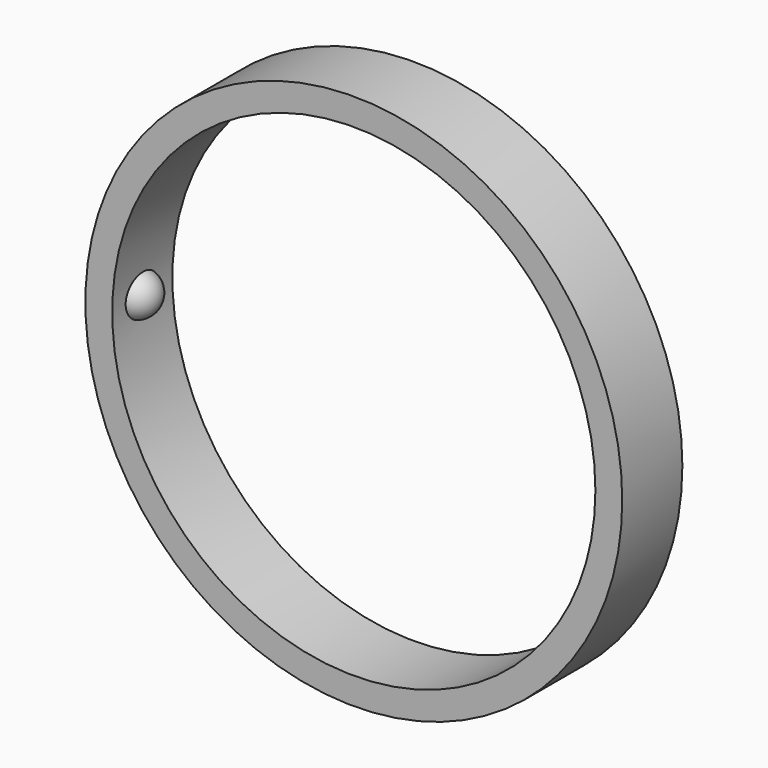
from build123d import *

# Parameters (mm, degrees)
F0_R     = 25
F1_DEPTH = 7
F2_R     = 22.5
F3_DEPTH = 25


with BuildPart() as f1:
    # F0 (on Front) → F1 (new body)
    with BuildSketch(Plane.XZ):
        Circle(F0_R)
    extrude(amount=F1_DEPTH)

    # F2 (on face) → F3 (cut)
    with BuildSketch(Plane.XZ.offset(7)):
        Circle(F2_R)
    extrude(amount=-F3_DEPTH, mode=Mode.SUBTRACT)

    # F5 (on offset) → F6 (revolve)
    with BuildSketch(Plane.YZ.offset(23)):
        with BuildLine():
            Line((-5.5, 0), (-1.5, 0))
            ThreePointArc((-1.5, 0), (-3.5, 2), (-5.5, 0))
        make_face()
    revolve(axis=Axis((23, -3.548927, 0), (0, 1, 0)))

    # F7: F1 across plane


with BuildPart() as f1_1:
    add(f1.part)
    add(f1.part.mirror(Plane.YZ))


solid = f1_1.part
